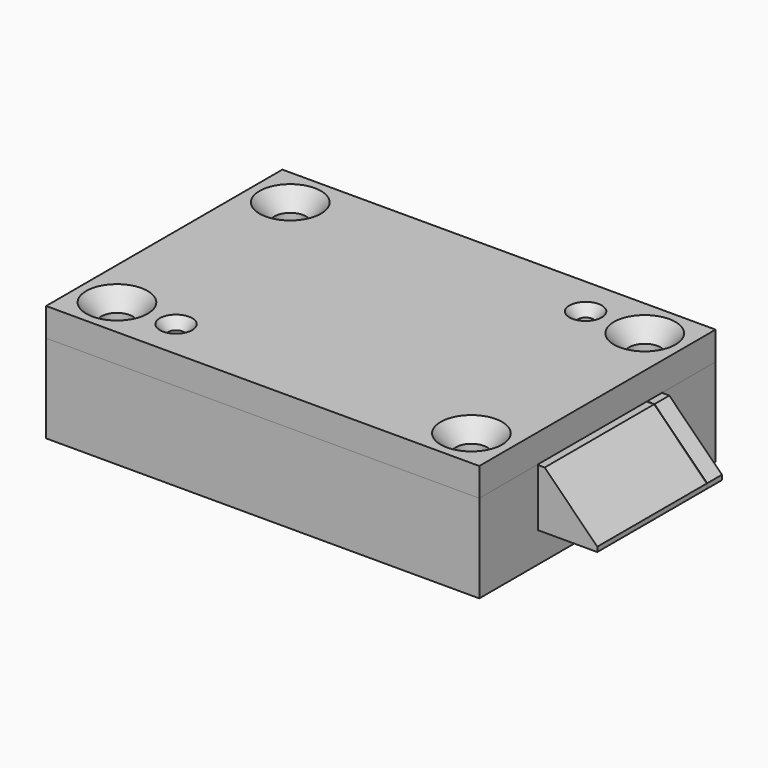
from build123d import *

# Parameters (mm, degrees)
F1_W            = 139.7
F1_H            = 95.25
F2_DEPTH        = 28.448
F3_D            = 10.0838
F3_CSINK_D      = 19.8374
F3_CSINK_ANGLE  = 82
F4_R            = 19.177
F5_DEPTH        = 21.844
F6_DEPTH        = 18.7452
F7_D            = 10.0838
F7_DEPTH        = 19.812
F7_TIP          = 3.0294791551
F8_D            = 4.0386
F8_DEPTH        = 25.2095
F8_TIP          = 1.213317848
F9_D            = 4.826
F9_DEPTH        = 10.922
F9_CSINK_D      = 5.334
F9_CSINK_ANGLE  = 90
F9_TIP          = 1.4498766737
F10_W           = 139.7
F10_H           = 95.25
F11_DEPTH       = 9.144
F13_D           = 10.0838
F13_CSINK_D     = 19.8374
F13_CSINK_ANGLE = 82
F14_D           = 5.1054
F14_CSINK_D     = 10.4394
F14_CSINK_ANGLE = 82
F16_DEPTH       = 18.4912
F17_W           = 4.826
F17_H           = 31.4452
F18_DEPTH       = 18.4912
F20_DEPTH       = 71.502
F21_DEPTH       = 27.8902
F22_DEPTH       = 6.35


with BuildPart() as f2:
    # F1 (on offset) → F2 (new body)
    with BuildSketch(Plane.XY.offset(-6.604)):
        Rectangle(F1_W, F1_H)
        with BuildLine():
            ThreePointArc((17.0247363946, -28.4976626866), (6.35, -35.5854), (-4.3247363946, -28.4976626866))
            ThreePointArc((-4.3247363946, -28.4976626866), (-5.0735051329, -27.5933722148), (-6.1974971656, -27.2542))
            Line((-6.1974971656, -27.2542), (-7.62, -27.2542))
            ThreePointArc((-7.62, -27.2542), (-10.8712, -24.003), (-7.62, -20.7518))
            Line((-7.62, -20.7518), (-6.1974971656, -20.7518))
            ThreePointArc((-6.1974971656, -20.7518), (-5.0735051329, -20.4126277852), (-4.3247363946, -19.5083373134))
            ThreePointArc((-4.3247363946, -19.5083373134), (6.35, -12.4206), (17.0247363946, -19.5083373134))
            ThreePointArc((17.0247363946, -19.5083373134), (17.7735051329, -20.4126277852), (18.8974971656, -20.7518))
            Line((18.8974971656, -20.7518), (20.32, -20.7518))
            ThreePointArc((20.32, -20.7518), (23.5712, -24.003), (20.32, -27.2542))
            Line((20.32, -27.2542), (18.8974971656, -27.2542))
            ThreePointArc((18.8974971656, -27.2542), (17.7735051329, -27.5933722148), (17.0247363946, -28.4976626866))
        make_face(mode=Mode.SUBTRACT)
    extrude(amount=F2_DEPTH)

    # F3 (through all)
    with Locations(Plane(origin=(0, 0, -6.604), x_dir=(1, 0, 0), z_dir=(0, 0, -1))):
        with Locations((-57.15, 34.925), (57.15, 34.925), (57.15, -34.925), (-57.15, -34.925)):
            CounterSinkHole(F3_D / 2, F3_CSINK_D / 2, counter_sink_angle=F3_CSINK_ANGLE)

    # F4 (on face) → F5 (cut)
    with BuildSketch(Plane.XY.offset(21.844)):
        with Locations((6.35, -24.003)):
            Circle(F4_R)
        with BuildLine():
            ThreePointArc((18.8974971656, -27.2542), (17.7735051329, -27.5933722148), (17.0247363946, -28.4976626866))
            ThreePointArc((17.0247363946, -28.4976626866), (6.35, -35.5854), (-4.3247363946, -28.4976626866))
            ThreePointArc((-4.3247363946, -28.4976626866), (-5.0735051329, -27.5933722148), (-6.1974971656, -27.2542))
            Line((-6.1974971656, -27.2542), (-7.62, -27.2542))
            ThreePointArc((-7.62, -27.2542), (-10.8712, -24.003), (-7.62, -20.7518))
            Line((-7.62, -20.7518), (-6.1974971656, -20.7518))
            ThreePointArc((-6.1974971656, -20.7518), (-5.0735051329, -20.4126277852), (-4.3247363946, -19.5083373134))
            ThreePointArc((-4.3247363946, -19.5083373134), (6.35, -12.4206), (17.0247363946, -19.5083373134))
            ThreePointArc((17.0247363946, -19.5083373134), (17.7735051329, -20.4126277852), (18.8974971656, -20.7518))
            Line((18.8974971656, -20.7518), (20.32, -20.7518))
            ThreePointArc((20.32, -20.7518), (23.5712, -24.003), (20.32, -27.2542))
            Line((20.32, -27.2542), (18.8974971656, -27.2542))
        make_face(mode=Mode.SUBTRACT)
    extrude(amount=-F5_DEPTH, mode=Mode.SUBTRACT)

    # F4 (on face) → F6 (cut)
    with BuildSketch(Plane.XY.offset(21.844)):
        with BuildLine():
            Line((69.85, -24.003), (69.85, 26.4922))
            Line((69.85, 26.4922), (-52.07, 26.4922))
            Line((-52.07, 26.4922), (-52.07, -24.003))
            Line((-52.07, -24.003), (-23.495, -24.003))
            ThreePointArc((-23.495, -24.003), (-23.1866616456, -28.2819769608), (-22.2680176692, -32.4725389298))
            ThreePointArc((-22.2680176692, -32.4725389298), (-19.682438944, -36.7562266011), (-15.3331328398, -39.2298340521))
            Line((-15.3331328398, -39.2298340521), (1.0907970035, -43.6306127902))
            ThreePointArc((1.0907970035, -43.6306127902), (6.35, -44.323), (11.6092029965, -43.6306127902))
            Line((11.6092029965, -43.6306127902), (28.0331328398, -39.2298340521))
            ThreePointArc((28.0331328398, -39.2298340521), (32.382438944, -36.7562266011), (34.9680176692, -32.4725389298))
            ThreePointArc((34.9680176692, -32.4725389298), (35.8866616456, -28.2819769608), (36.195, -24.003))
            Line((36.195, -24.003), (69.85, -24.003))
        make_face()
        with Locations((6.35, -24.003)):
            Circle(F4_R, mode=Mode.SUBTRACT)
    extrude(amount=-F6_DEPTH, mode=Mode.SUBTRACT)

    # F7
    with Locations(Plane.XY.offset(21.844)):
        with Locations((-49.0173654173, 23.4395654173), (-49.0173654173, -20.9503654173)):
            Hole(F7_D / 2, depth=F7_DEPTH)
            with Locations((0, 0, -(F7_DEPTH + F7_TIP / 2))):  # 118° drill point
                Cone(0, F7_D / 2, F7_TIP, mode=Mode.SUBTRACT)

    # F8
    with Locations(Plane.XY.offset(21.844)):
        with Locations((38.1, 34.925), (-38.1, -34.925)):
            Hole(F8_D / 2, depth=F8_DEPTH)
            with Locations((0, 0, -(F8_DEPTH + F8_TIP / 2))):  # 118° drill point
                Cone(0, F8_D / 2, F8_TIP, mode=Mode.SUBTRACT)

    # F9
    with Locations(Plane.XY.offset(21.844)):
        with Locations((38.1, 34.925), (-38.1, -34.925)):
            CounterSinkHole(F9_D / 2, F9_CSINK_D / 2, depth=F9_DEPTH, counter_sink_angle=F9_CSINK_ANGLE)
            with Locations((0, 0, -(F9_DEPTH + F9_TIP / 2))):  # 118° drill point
                Cone(0, F9_D / 2, F9_TIP, mode=Mode.SUBTRACT)


with BuildPart() as f11:
    # F10 (on face) → F11 (new body)
    with BuildSketch(Plane.XY.offset(21.844)):
        Rectangle(F10_W, F10_H)
    extrude(amount=F11_DEPTH)

    # F13 (through all)
    with Locations(Plane.XY.offset(30.988)):
        with Locations((-57.15, 34.925), (57.15, 34.925), (57.15, -34.925), (-57.15, -34.925)):
            CounterSinkHole(F13_D / 2, F13_CSINK_D / 2, counter_sink_angle=F13_CSINK_ANGLE)

    # F14 (through all)
    with Locations(Plane.XY.offset(30.988)):
        with Locations((38.1, 34.925), (-38.1, -34.925)):
            CounterSinkHole(F14_D / 2, F14_CSINK_D / 2, counter_sink_angle=F14_CSINK_ANGLE)


with BuildPart() as f16:
    # F15 (on face) → F16 (new body)
    with BuildSketch(Plane.XY.offset(3.0988)):
        Polygon((-51.308, 26.3652), (-51.308, 7.6962), (45.466, 7.6962), (45.466, 20.3962), (88.9, 20.3962), (88.9, 26.3652), align=None)
    extrude(amount=F16_DEPTH)


with BuildPart() as f18:
    # F17 (on face) → F18 (new body, through all)
    with BuildSketch(Plane.XY.offset(3.0988)):
        with Locations((-48.895, -8.1534)):
            Rectangle(F17_W, F17_H)
        with BuildLine():
            Line((45.593, 7.5692), (-46.482, 7.5692))
            Line((-46.482, 7.5692), (-46.482, -23.876))
            Line((-46.482, -23.876), (-33.528, -23.876))
            ThreePointArc((-33.528, -23.876), (-27.7251995489, -9.8668004511), (-13.716, -4.064))
            Line((-13.716, -4.064), (6.35, -4.064))
            ThreePointArc((6.35, -4.064), (20.3591995489, -9.8668004511), (26.162, -23.876))
            Line((26.162, -23.876), (45.593, -23.876))
            Line((45.593, -23.876), (45.593, 7.5692))
        make_face()
        Polygon((45.593, 20.2692), (45.593, 7.5692), (45.593, -23.876), (88.9, -23.876), (88.9, 20.2692), align=None)
        with BuildLine():
            ThreePointArc((-13.716, -4.064), (-27.7251995489, -9.8668004511), (-33.528, -23.876))
            Line((-33.528, -23.876), (26.162, -23.876))
            ThreePointArc((26.162, -23.876), (20.3591995489, -9.8668004511), (6.35, -4.064))
            Line((6.35, -4.064), (-13.716, -4.064))
        make_face()
    extrude(amount=F18_DEPTH)


with BuildPart() as f20_tool:
    # F19 (on face) → F20 (new body, through all)
    with BuildSketch(Plane.XZ.offset(23.876)):
        Polygon((88.9, 4.6228), (88.9, 21.59), (71.9328, 21.59), align=None)
    extrude(amount=-F20_DEPTH)


with BuildPart() as f16_1:
    add(f16.part)

    # F20: cut by f20_tool
    add(f20_tool.part, mode=Mode.SUBTRACT)


with BuildPart() as f18_1:
    add(f18.part)

    # F20: cut by f20_tool
    add(f20_tool.part, mode=Mode.SUBTRACT)

    # F17 (on face) → F21 (cut, through all)
    with BuildSketch(Plane.XY.offset(3.0988)):
        with BuildLine():
            Line((25.5265794656, -23.876), (26.162, -23.876))
            ThreePointArc((26.162, -23.876), (20.3591995489, -9.8668004511), (6.35, -4.064))
            Line((6.35, -4.064), (-13.716, -4.064))
            ThreePointArc((-13.716, -4.064), (-27.7251995489, -9.8668004511), (-33.528, -23.876))
            Line((-33.528, -23.876), (-12.8265794656, -23.876))
            ThreePointArc((-12.8265794656, -23.876), (6.35, -4.826), (25.5265794656, -23.876))
        make_face()
        with BuildLine():
            Line((-12.8265794656, -23.876), (25.5265794656, -23.876))
            ThreePointArc((25.5265794656, -23.876), (6.35, -4.826), (-12.8265794656, -23.876))
        make_face()
    extrude(amount=F21_DEPTH, mode=Mode.SUBTRACT)

    # F17 (on face) → F22 (cut)
    with BuildSketch(Plane.XY.offset(3.0988)):
        with BuildLine():
            Line((45.593, 7.5692), (-46.482, 7.5692))
            Line((-46.482, 7.5692), (-46.482, -16.5923064674))
            ThreePointArc((-46.482, -16.5923064674), (-44.6467925425, -18.4366334593), (-43.9754654173, -20.9503654173))
            ThreePointArc((-43.9754654173, -20.9503654173), (-44.2150671872, -22.4861672663), (-44.9110997295, -23.876))
            Line((-44.9110997295, -23.876), (-33.528, -23.876))
            ThreePointArc((-33.528, -23.876), (-27.7251995489, -9.8668004511), (-13.716, -4.064))
            Line((-13.716, -4.064), (6.35, -4.064))
            ThreePointArc((6.35, -4.064), (20.3591995489, -9.8668004511), (26.162, -23.876))
            Line((26.162, -23.876), (45.593, -23.876))
            Line((45.593, -23.876), (45.593, 7.5692))
        make_face()
        with BuildLine():
            ThreePointArc((-43.9754654173, -20.9503654173), (-44.6467925425, -18.4366334593), (-46.482, -16.5923064674))
            Line((-46.482, -16.5923064674), (-46.482, -23.876))
            Line((-46.482, -23.876), (-44.9110997295, -23.876))
            ThreePointArc((-44.9110997295, -23.876), (-44.2150671872, -22.4861672663), (-43.9754654173, -20.9503654173))
        make_face()
    extrude(amount=F22_DEPTH, mode=Mode.SUBTRACT)


solid = Compound([f2.part, f11.part, f16_1.part, f18_1.part])
